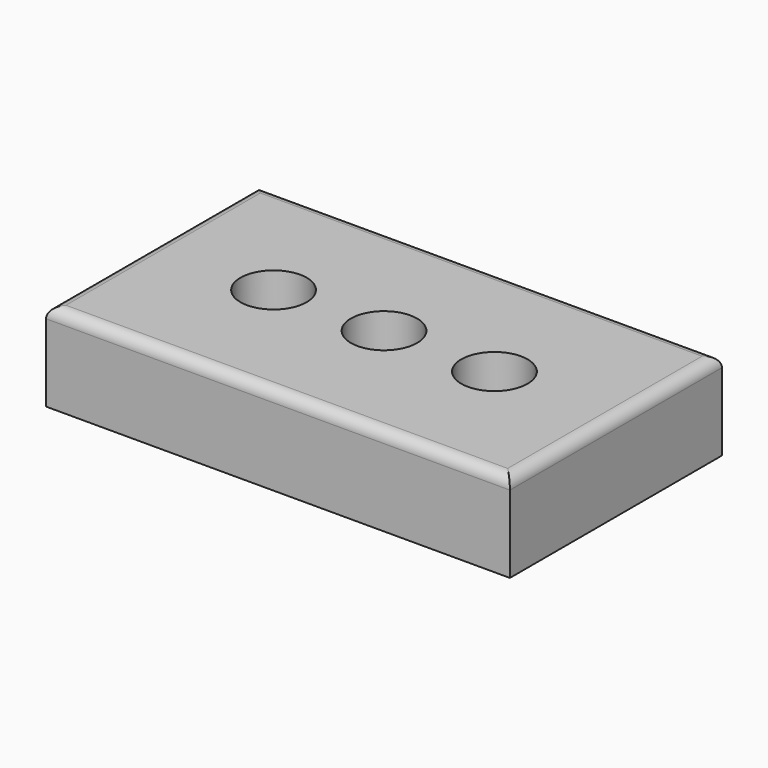
from build123d import *

# Parameters (mm, degrees)
F0_W      = 266.7
F0_H      = 152.4
F1_DEPTH  = 50.8
F2_R      = 19.05
F3_DEPTH  = 38.1
F4_R      = 6.35
F3_FACE_R = 19.05
F5_DEPTH  = 50.8


with BuildPart() as f1:
    # F0 (on Top) → F1 (new body)
    with BuildSketch(Plane.XY):
        Rectangle(F0_W, F0_H)
    extrude(amount=F1_DEPTH)

    # F2 (on face) → F3 (cut)
    with BuildSketch(Plane.XY.offset(50.8)):
        with Locations((-63.5, 0)):
            Circle(F2_R)
        Circle(F2_R)
        with Locations((63.5, 0)):
            Circle(F2_R)
    extrude(amount=-F3_DEPTH, mode=Mode.SUBTRACT)

    # F4
    f4_edges = [f1.edges().sort_by_distance(p)[0] for p in [
        (133.35, 0, 50.8),
        (0, 76.2, 50.8),
        (0, -76.2, 50.8),
        (-133.35, 0, 50.8),
    ]]
    fillet(f4_edges, radius=F4_R)

    # F3_face (on face) → F5 (cut)
    with BuildSketch(Plane.XY.offset(12.7)):
        Circle(F3_FACE_R)
        with Locations((63.5, 0)):
            Circle(F3_FACE_R)
    extrude(amount=-F5_DEPTH, mode=Mode.SUBTRACT)


solid = f1.part
